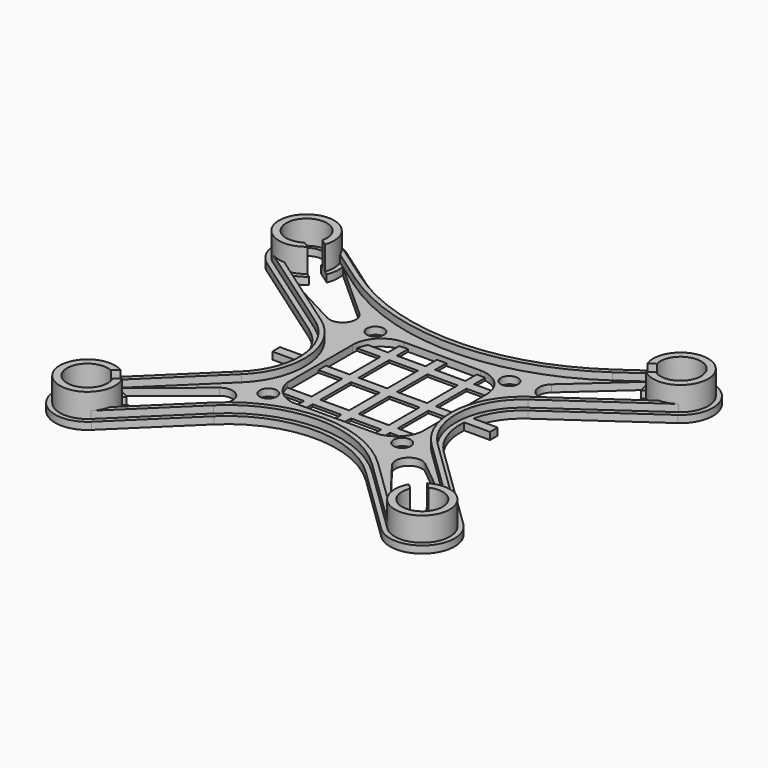
from build123d import *

# Parameters (mm, degrees)
F0_R     = 1.8
F1_DEPTH = 1.5
F3_DEPTH = 5
F4_W     = 6
F4_H     = 8
F4_W_2   = 6.3173136708
F5_DEPTH = 0.5
F7_DEPTH = 1.5
F8_W     = 6
F8_H     = 2
F9_DEPTH = 1.5


with BuildPart() as f1:
    # F0 (on Top) → F1 (new body)
    with BuildSketch(Plane.XY):
        with BuildLine():
            ThreePointArc((30.2947208453, -39.839715702), (39.839715702, -39.7052791547), (39.7052791547, -30.160284298))
            Line((39.7052791547, -30.160284298), (21.2433486026, -12.2111851501))
            ThreePointArc((21.2433486026, -12.2111851501), (17.347179273, -1.8484487807), (22.8488740428, 7.7587253702))
            Line((22.8488740428, 7.7587253702), (42.9630134571, 21.8427974127))
            ThreePointArc((42.9630134571, 21.8427974127), (44.6206488107, 31.2437146571), (35.2197315664, 32.9013500106))
            Line((35.2197315664, 32.9013500106), (25.8109396358, 26.3132429754))
            ThreePointArc((25.8109396358, 26.3132429754), (0, 18.1750849684), (-25.8109396358, 26.3132429754))
            Line((-25.8109396358, 26.3132429754), (-35.2197315664, 32.9013500106))
            ThreePointArc((-35.2197315664, 32.9013500106), (-44.6206488107, 31.2437146571), (-42.9630134571, 21.8427974127))
            Line((-42.9630134571, 21.8427974127), (-22.8488740428, 7.7587253702))
            ThreePointArc((-22.8488740428, 7.7587253702), (-17.347179273, -1.8484487807), (-21.2433486026, -12.2111851501))
            Line((-21.2433486026, -12.2111851501), (-39.7052791547, -30.160284298))
            ThreePointArc((-39.7052791547, -30.160284298), (-39.839715702, -39.7052791547), (-30.2947208453, -39.839715702))
            Line((-30.2947208453, -39.839715702), (-15.8843253479, -25.8296089685))
            ThreePointArc((-15.8843253479, -25.8296089685), (0, -19.3807721835), (15.8843253479, -25.8296089685))
            Line((15.8843253479, -25.8296089685), (30.2947208453, -39.839715702))
        make_face()
        with BuildLine():
            Line((-29.2356787512, -31.487863821), (-31.6870453958, -33.8711369477))
            ThreePointArc((-31.6870453958, -33.8711369477), (-37.5094822159, -37.4397743765), (-33.7782805757, -31.7201521913))
            Line((-33.7782805757, -31.7201521913), (-31.326913931, -29.3368790645))
            ThreePointArc((-31.326913931, -29.3368790645), (-33.0237108275, -28.5457935339), (-34.8725355344, -28.2512036029))
            Line((-34.8725355344, -28.2512036029), (-21.5236645835, -17.3894939319))
            ThreePointArc((-21.5236645835, -17.3894939319), (-17.8712196925, -17.5506774511), (-17.6066202289, -21.197089514))
            Line((-17.6066202289, -21.197089514), (-28.2502907982, -35.0626553316))
            ThreePointArc((-28.2502907982, -35.0626553316), (-28.4926946348, -33.2062673322), (-29.2356787512, -31.487863821))
        make_face(mode=Mode.SUBTRACT)
        with Locations((-14, -14)):
            Circle(F0_R, mode=Mode.SUBTRACT)
        with BuildLine():
            ThreePointArc((33.7782805757, -31.7201521913), (37.5094822159, -37.4397743765), (31.6870453958, -33.8711369477))
            Line((31.6870453958, -33.8711369477), (29.2356787512, -31.487863821))
            ThreePointArc((29.2356787512, -31.487863821), (28.4926946348, -33.2062673322), (28.2502907982, -35.0626553316))
            Line((28.2502907982, -35.0626553316), (17.6066202289, -21.197089514))
            ThreePointArc((17.6066202289, -21.197089514), (17.8712196925, -17.5506774511), (21.5236645835, -17.3894939319))
            Line((21.5236645835, -17.3894939319), (34.8725355344, -28.2512036029))
            ThreePointArc((34.8725355344, -28.2512036029), (33.0237108275, -28.5457935339), (31.326913931, -29.3368790645))
            Line((31.326913931, -29.3368790645), (33.7782805757, -31.7201521913))
        make_face(mode=Mode.SUBTRACT)
        with Locations((14, -14)):
            Circle(F0_R, mode=Mode.SUBTRACT)
        with BuildLine():
            ThreePointArc((14, -9), (12.3148133869, -12.3148133869), (9, -14))
            Line((9, -14), (0, -14))
            Line((0, -14), (-9, -14))
            ThreePointArc((-9, -14), (-12.3148133869, -12.3148133869), (-14, -9))
            Line((-14, -9), (-14, 8))
            ThreePointArc((-14, 8), (-12.2426406871, 12.2426406871), (-8, 14))
            Line((-8, 14), (0, 14))
            Line((0, 14), (8, 14))
            ThreePointArc((8, 14), (12.2426406871, 12.2426406871), (14, 8))
            Line((14, 8), (14, -9))
        make_face(mode=Mode.SUBTRACT)
        with Locations((-14, 14)):
            Circle(F0_R, mode=Mode.SUBTRACT)
        with BuildLine():
            ThreePointArc((-32.8399853448, 24.8259671763), (-32.3810796569, 26.6409992956), (-32.4383692427, 28.5122699676))
            Line((-32.4383692427, 28.5122699676), (-20.0503215157, 17.3717426222))
            ThreePointArc((-20.0503215157, 17.3717426222), (-19.6365114599, 13.7496333483), (-23.1817121907, 12.8996532712))
            Line((-23.1817121907, 12.8996532712), (-37.887345388, 20.7303255468))
            ThreePointArc((-37.887345388, 20.7303255468), (-36.1093319537, 21.3165032092), (-34.5607146539, 22.3685110434))
            Line((-34.5607146539, 22.3685110434), (-37.3613509563, 24.3295376942))
            ThreePointArc((-37.3613509563, 24.3295376942), (-41.9584046667, 29.3795912389), (-35.6406216473, 26.786993827))
            Line((-35.6406216473, 26.786993827), (-32.8399853448, 24.8259671763))
        make_face(mode=Mode.SUBTRACT)
        with Locations((14, 14)):
            Circle(F0_R, mode=Mode.SUBTRACT)
        with BuildLine():
            ThreePointArc((35.6406216473, 26.786993827), (41.9584046667, 29.3795912389), (37.3613509563, 24.3295376942))
            Line((37.3613509563, 24.3295376942), (34.5607146539, 22.3685110434))
            ThreePointArc((34.5607146539, 22.3685110434), (36.1093319537, 21.3165032092), (37.887345388, 20.7303255468))
            Line((37.887345388, 20.7303255468), (23.1817121907, 12.8996532712))
            ThreePointArc((23.1817121907, 12.8996532712), (19.6365114599, 13.7496333483), (20.0503215157, 17.3717426222))
            Line((20.0503215157, 17.3717426222), (32.4383692427, 28.5122699676))
            ThreePointArc((32.4383692427, 28.5122699676), (32.3810796569, 26.6409992956), (32.8399853448, 24.8259671763))
            Line((32.8399853448, 24.8259671763), (35.6406216473, 26.786993827))
        make_face(mode=Mode.SUBTRACT)
    extrude(amount=F1_DEPTH)

    # F2 (on face) → F3 (join)
    with BuildSketch(Plane.XY.offset(1.5)):
        with BuildLine():
            ThreePointArc((29.9744147217, -32.2060793479), (39.1227207832, -39.0082007614), (32.0656499016, -30.0550945914))
            Line((32.0656499016, -30.0550945914), (33.1944920058, -31.1525799706))
            ThreePointArc((33.1944920058, -31.1525799706), (38.047228405, -37.9625831715), (31.1032568259, -33.303564727))
            Line((31.1032568259, -33.303564727), (29.9744147217, -32.2060793479))
        make_face()
        with BuildLine():
            Line((-33.1944920058, -31.1525799706), (-32.0656499016, -30.0550945914))
            ThreePointArc((-32.0656499016, -30.0550945914), (-39.1227207832, -39.0082007614), (-29.9744147217, -32.2060793479))
            Line((-29.9744147217, -32.2060793479), (-31.1032568259, -33.303564727))
            ThreePointArc((-31.1032568259, -33.303564727), (-38.047228405, -37.9625831715), (-33.1944920058, -31.1525799706))
        make_face()
        with BuildLine():
            ThreePointArc((34.9736551348, 26.3199788473), (42.5727687, 29.8097735662), (36.6943844439, 23.8625227144))
            Line((36.6943844439, 23.8625227144), (35.4047054055, 22.9594797299))
            ThreePointArc((35.4047054055, 22.9594797299), (43.8014967664, 30.6701382207), (33.6839760965, 25.4169358628))
            Line((33.6839760965, 25.4169358628), (34.9736551348, 26.3199788473))
        make_face()
        with BuildLine():
            ThreePointArc((-33.6839760965, 25.4169358628), (-43.8014967664, 30.6701382207), (-35.4047054055, 22.9594797299))
            Line((-35.4047054055, 22.9594797299), (-36.6943844439, 23.8625227144))
            ThreePointArc((-36.6943844439, 23.8625227144), (-42.5727687, 29.8097735662), (-34.9736551348, 26.3199788473))
            Line((-34.9736551348, 26.3199788473), (-33.6839760965, 25.4169358628))
        make_face()
    extrude(amount=F3_DEPTH)

    # F4 (on Top) → F5 (join)
    with BuildSketch(Plane.XY):
        with BuildLine():
            Line((7.1586568354, -14), (9, -14))
            Line((9, -14), (9, -10.9334729781))
            Line((9, -10.9334729781), (13.3459721573, -10.9334729781))
            ThreePointArc((13.3459721573, -10.9334729781), (13.7558062158, -9.9947517115), (14, -9))
            Line((14, -9), (14, -8.9334729781))
            Line((14, -8.9334729781), (9, -8.9334729781))
            Line((9, -8.9334729781), (9, -0.9334729781))
            Line((9, -0.9334729781), (14, -0.9334729781))
            Line((14, -0.9334729781), (14, 1.0397777719))
            Line((14, 1.0397777719), (9, 1.0397777719))
            Line((9, 1.0397777719), (9, 9.0397777719))
            Line((9, 9.0397777719), (13.9998417704, 9.0397777719))
            ThreePointArc((13.9998417704, 9.0397777719), (13.8858563516, 10.062265368), (13.5650089421, 11.0397777719))
            Line((13.5650089421, 11.0397777719), (9, 11.0397777719))
            Line((9, 11.0397777719), (9, 14))
            Line((9, 14), (7.1586568354, 14))
            Line((7.1586568354, 14), (7.1586568354, 11.0397777719))
            Line((7.1586568354, 11.0397777719), (0.8413431646, 11.0397777719))
            Line((0.8413431646, 11.0397777719), (0.8413431646, 14))
            Line((0.8413431646, 14), (-1.1586568354, 14))
            Line((-1.1586568354, 14), (-1.1586568354, 11.0397777719))
            Line((-1.1586568354, 11.0397777719), (-7.1586568354, 11.0397777719))
            Line((-7.1586568354, 11.0397777719), (-7.1586568354, 14))
            Line((-7.1586568354, 14), (-9, 14))
            Line((-9, 14), (-9, 11.0397777719))
            Line((-9, 11.0397777719), (-13.5650089421, 11.0397777719))
            ThreePointArc((-13.5650089421, 11.0397777719), (-13.8858563516, 10.062265368), (-13.9998417704, 9.0397777719))
            Line((-13.9998417704, 9.0397777719), (-9, 9.0397777719))
            Line((-9, 9.0397777719), (-9, 1.0397777719))
            Line((-9, 1.0397777719), (-14, 1.0397777719))
            Line((-14, 1.0397777719), (-14, -0.9334729781))
            Line((-14, -0.9334729781), (-9, -0.9334729781))
            Line((-9, -0.9334729781), (-9, -8.9334729781))
            Line((-9, -8.9334729781), (-14, -8.9334729781))
            Line((-14, -8.9334729781), (-14, -9))
            ThreePointArc((-14, -9), (-13.9017953782, -9.9861044928), (-13.6110391717, -10.9334729781))
            Line((-13.6110391717, -10.9334729781), (-9, -10.9334729781))
            Line((-9, -10.9334729781), (-9, -14))
            Line((-9, -14), (-7.1586568354, -14))
            Line((-7.1586568354, -14), (-7.1586568354, -10.9334729781))
            Line((-7.1586568354, -10.9334729781), (-1.1586568354, -10.9334729781))
            Line((-1.1586568354, -10.9334729781), (-1.1586568354, -14))
            Line((-1.1586568354, -14), (0.8413431646, -14))
            Line((0.8413431646, -14), (0.8413431646, -10.9334729781))
            Line((0.8413431646, -10.9334729781), (7.1586568354, -10.9334729781))
            Line((7.1586568354, -10.9334729781), (7.1586568354, -14))
        make_face()
        with Locations((-4.1586568354, -4.9334729781)):
            Rectangle(F4_W, F4_H, mode=Mode.SUBTRACT)
        with Locations((4, -4.9334729781)):
            Rectangle(F4_W_2, F4_H, mode=Mode.SUBTRACT)
        with Locations((-4.1586568354, 5.0397777719)):
            Rectangle(F4_W, F4_H, mode=Mode.SUBTRACT)
        with Locations((4, 5.0397777719)):
            Rectangle(F4_W_2, F4_H, mode=Mode.SUBTRACT)
    extrude(amount=F5_DEPTH)

    # F6 (on face) → F7 (join)
    with BuildSketch(Plane.XY.offset(1.5)):
        with BuildLine():
            ThreePointArc((-29.3655485564, -36.1469337077), (-29.9543075236, -37.7574421904), (-30.9917992386, -39.1227207832))
            Line((-30.9917992386, -39.1227207832), (-16.5814037412, -25.1126140497))
            ThreePointArc((-16.5814037412, -25.1126140497), (0, -18.3807721835), (16.5814037412, -25.1126140497))
            Line((16.5814037412, -25.1126140497), (30.9917992386, -39.1227207832))
            ThreePointArc((30.9917992386, -39.1227207832), (29.9543075236, -37.7574421904), (29.3655485564, -36.1469337077))
            Line((29.3655485564, -36.1469337077), (17.2784821345, -24.3956191308))
            ThreePointArc((17.2784821345, -24.3956191308), (0, -17.3807721835), (-17.2784821345, -24.3956191308))
            Line((-17.2784821345, -24.3956191308), (-29.3655485564, -36.1469337077))
        make_face()
        with BuildLine():
            ThreePointArc((35.9877932927, -29.3354819789), (37.6142444086, -29.8786499659), (39.0082007614, -30.8772792168))
            Line((39.0082007614, -30.8772792168), (20.5462702093, -12.9281800689))
            ThreePointArc((20.5462702093, -12.9281800689), (16.3503955467, -1.7683101326), (22.2752976065, 8.5778774145))
            Line((22.2752976065, 8.5778774145), (42.3894370208, 22.661949457))
            ThreePointArc((42.3894370208, 22.661949457), (40.8538424019, 21.8988479822), (39.1615045886, 21.622501424))
            Line((39.1615045886, 21.622501424), (21.7017211701, 9.3970294588))
            ThreePointArc((21.7017211701, 9.3970294588), (15.3536118204, -1.6881714846), (19.849191816, -13.6451749877))
            Line((19.849191816, -13.6451749877), (35.9877932927, -29.3354819789))
        make_face()
        with BuildLine():
            Line((-20.5462702093, -12.9281800689), (-39.0082007614, -30.8772792168))
            ThreePointArc((-39.0082007614, -30.8772792168), (-37.6142444086, -29.8786499659), (-35.9877932927, -29.3354819789))
            Line((-35.9877932927, -29.3354819789), (-19.849191816, -13.6451749877))
            ThreePointArc((-19.849191816, -13.6451749877), (-15.3536118204, -1.6881714846), (-21.7017211701, 9.3970294588))
            Line((-21.7017211701, 9.3970294588), (-39.1615045886, 21.622501424))
            ThreePointArc((-39.1615045886, 21.622501424), (-40.8538424019, 21.8988479822), (-42.3894370208, 22.661949457))
            Line((-42.3894370208, 22.661949457), (-22.2752976065, 8.5778774145))
            ThreePointArc((-22.2752976065, 8.5778774145), (-16.3503955467, -1.7683101326), (-20.5462702093, -12.9281800689))
        make_face()
        with BuildLine():
            ThreePointArc((26.3845160721, 25.4940909311), (0, 17.1750849684), (-26.3845160721, 25.4940909311))
            Line((-26.3845160721, 25.4940909311), (-35.7933080027, 32.0821979663))
            ThreePointArc((-35.7933080027, 32.0821979663), (-34.5510228862, 30.9002071103), (-33.7125284433, 29.4044458447))
            Line((-33.7125284433, 29.4044458447), (-26.9580925085, 24.6749388868))
            ThreePointArc((-26.9580925085, 24.6749388868), (0, 16.1750849684), (26.9580925085, 24.6749388868))
            Line((26.9580925085, 24.6749388868), (33.7125284433, 29.4044458447))
            ThreePointArc((33.7125284433, 29.4044458447), (34.5510228862, 30.9002071103), (35.7933080027, 32.0821979663))
            Line((35.7933080027, 32.0821979663), (26.3845160721, 25.4940909311))
        make_face()
    extrude(amount=F7_DEPTH)

    # F8 (on face) → F9 (join)
    with BuildSketch(Plane.XY):
        with Locations((19.7499054223, -1)):
            Rectangle(F8_W, F8_H)
        with Locations((-19.7499054223, -1)):
            Rectangle(F8_W, F8_H)
    extrude(amount=F9_DEPTH)


solid = f1.part
